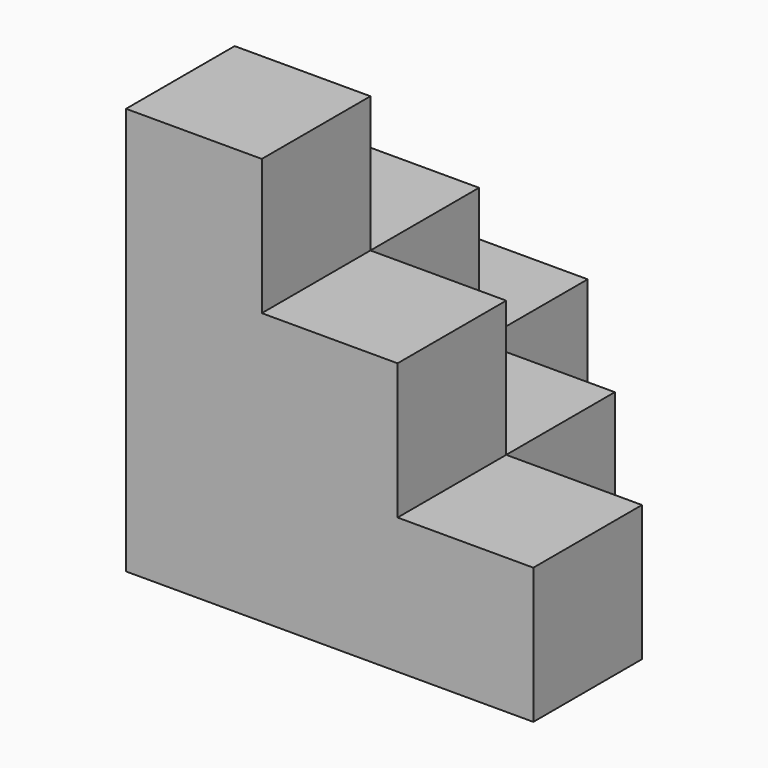
from build123d import *

# Parameters (mm, degrees)
BOX_W        = 30
BOX_H        = 10
BOX_DEPTH    = 10
BOX001_W     = 10
BOX001_H     = 30
BOX001_DEPTH = 10
BOX002_W     = 20
BOX002_H     = 20
BOX002_DEPTH = 10
BOX003_W     = 20
BOX003_H     = 10
BOX003_DEPTH = 10
BOX004_W     = 10
BOX004_H     = 20
BOX004_DEPTH = 10
BOX005_W     = 10
BOX005_H     = 10
BOX005_DEPTH = 10


with BuildPart() as cubo:
    # Box → Box (new body)
    with BuildSketch(Plane.XY):
        with Locations((15, 5)):
            Rectangle(BOX_W, BOX_H)
    extrude(amount=BOX_DEPTH)


with BuildPart() as cubo001:
    # Box001 → Box001 (new body)
    with BuildSketch(Plane.XY):
        with Locations((5, 15)):
            Rectangle(BOX001_W, BOX001_H)
    extrude(amount=BOX001_DEPTH)


with BuildPart() as cubo002:
    # Box002 → Box002 (new body)
    with BuildSketch(Plane.XY):
        with Locations((10, 10)):
            Rectangle(BOX002_W, BOX002_H)
    extrude(amount=BOX002_DEPTH)


with BuildPart() as cubo003:
    # Box003 → Box003 (new body)
    with BuildSketch(Plane.XY.offset(10)):
        with Locations((10, 5)):
            Rectangle(BOX003_W, BOX003_H)
    extrude(amount=BOX003_DEPTH)


with BuildPart() as cubo004:
    # Box004 → Box004 (new body)
    with BuildSketch(Plane.XY.offset(10)):
        with Locations((5, 10)):
            Rectangle(BOX004_W, BOX004_H)
    extrude(amount=BOX004_DEPTH)


with BuildPart() as fusion:
    # Box005 → Box005 (new body)
    with BuildSketch(Plane.XY.offset(20)):
        with Locations((5, 5)):
            Rectangle(BOX005_W, BOX005_H)
    extrude(amount=BOX005_DEPTH)

    # Fusion: union Cubo, Cubo001, Cubo002, Cubo003, Cubo004
    add(cubo.part)
    add(cubo001.part)
    add(cubo002.part)
    add(cubo003.part)
    add(cubo004.part)


solid = fusion.part
